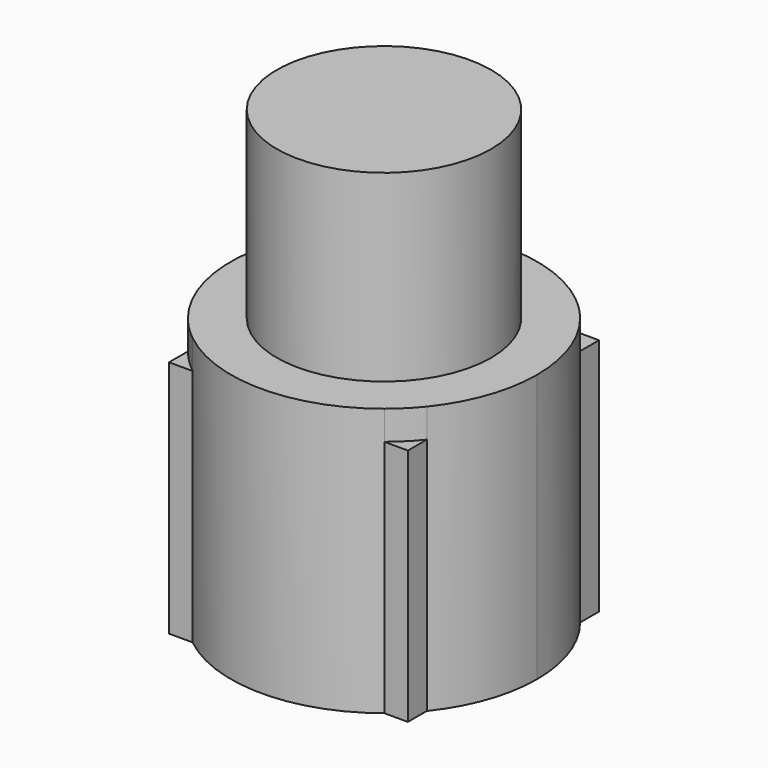
from build123d import *

# Parameters (mm, degrees)
F0_R     = 70
F1_DEPTH = 156
F2_DEPTH = 175
F3_DEPTH = 295


with BuildPart() as f1:
    # F0 (on Top) → F1 (new body)
    with BuildSketch(Plane.XY):
        with BuildLine():
            ThreePointArc((-78, 62.5779513887), (-70.7106781187, 70.7106781187), (-62.5779513886, 78))
            Line((-62.5779513886, 78), (-78, 78))
            Line((-78, 78), (-78, 62.5779513887))
        make_face()
        with BuildLine():
            Line((78, -62.5779513886), (78, 62.5779513886))
            ThreePointArc((78, 62.5779513886), (70.7106781187, 70.7106781187), (62.5779513886, 78))
            Line((62.5779513886, 78), (-62.5779513886, 78))
            ThreePointArc((-62.5779513886, 78), (-70.7106781187, 70.7106781187), (-78, 62.5779513887))
            Line((-78, 62.5779513887), (-78, -62.5779513887))
            ThreePointArc((-78, -62.5779513887), (-70.7106781187, -70.7106781187), (-62.5779513886, -78))
            Line((-62.5779513886, -78), (62.5779513886, -78))
            ThreePointArc((62.5779513886, -78), (70.7106781187, -70.7106781187), (78, -62.5779513886))
        make_face()
        Circle(F0_R, mode=Mode.SUBTRACT)
        with BuildLine():
            ThreePointArc((62.5779513886, 78), (70.7106781187, 70.7106781187), (78, 62.5779513886))
            Line((78, 62.5779513886), (78, 78))
            Line((78, 78), (62.5779513886, 78))
        make_face()
        with BuildLine():
            Line((-78, -78), (-62.5779513886, -78))
            ThreePointArc((-62.5779513886, -78), (-70.7106781187, -70.7106781187), (-78, -62.5779513887))
            Line((-78, -62.5779513887), (-78, -78))
        make_face()
        with BuildLine():
            Line((78, -78), (78, -62.5779513886))
            ThreePointArc((78, -62.5779513886), (70.7106781187, -70.7106781187), (62.5779513886, -78))
            Line((62.5779513886, -78), (78, -78))
        make_face()
        Circle(F0_R)
    extrude(amount=F1_DEPTH)


with BuildPart() as f2:
    # F0 (on Top) → F2 (new body)
    with BuildSketch(Plane.XY):
        with BuildLine():
            Line((-78, -62.5779513887), (-78, 62.5779513887))
            ThreePointArc((-78, 62.5779513887), (-100, 0), (-78, -62.5779513887))
        make_face()
        with BuildLine():
            Line((78, -62.5779513886), (78, 62.5779513886))
            ThreePointArc((78, 62.5779513886), (70.7106781187, 70.7106781187), (62.5779513886, 78))
            Line((62.5779513886, 78), (-62.5779513886, 78))
            ThreePointArc((-62.5779513886, 78), (-70.7106781187, 70.7106781187), (-78, 62.5779513887))
            Line((-78, 62.5779513887), (-78, -62.5779513887))
            ThreePointArc((-78, -62.5779513887), (-70.7106781187, -70.7106781187), (-62.5779513886, -78))
            Line((-62.5779513886, -78), (62.5779513886, -78))
            ThreePointArc((62.5779513886, -78), (70.7106781187, -70.7106781187), (78, -62.5779513886))
        make_face()
        Circle(F0_R, mode=Mode.SUBTRACT)
        with BuildLine():
            ThreePointArc((-62.5779513886, -78), (0, -100), (62.5779513886, -78))
            Line((62.5779513886, -78), (-62.5779513886, -78))
        make_face()
        with BuildLine():
            ThreePointArc((78, -62.5779513886), (94.3398113206, -33.1662479036), (100, 0))
            ThreePointArc((100, 0), (94.3398113206, 33.1662479036), (78, 62.5779513886))
            Line((78, 62.5779513886), (78, -62.5779513886))
        make_face()
        with BuildLine():
            Line((-62.5779513886, 78), (62.5779513886, 78))
            ThreePointArc((62.5779513886, 78), (0, 100), (-62.5779513886, 78))
        make_face()
        Circle(F0_R)
    extrude(amount=F2_DEPTH)


with BuildPart() as f3:
    # F0 (on Top) → F3 (new body)
    with BuildSketch(Plane.XY):
        Circle(F0_R)
    extrude(amount=F3_DEPTH)


solid = Compound([f1.part, f2.part, f3.part])
